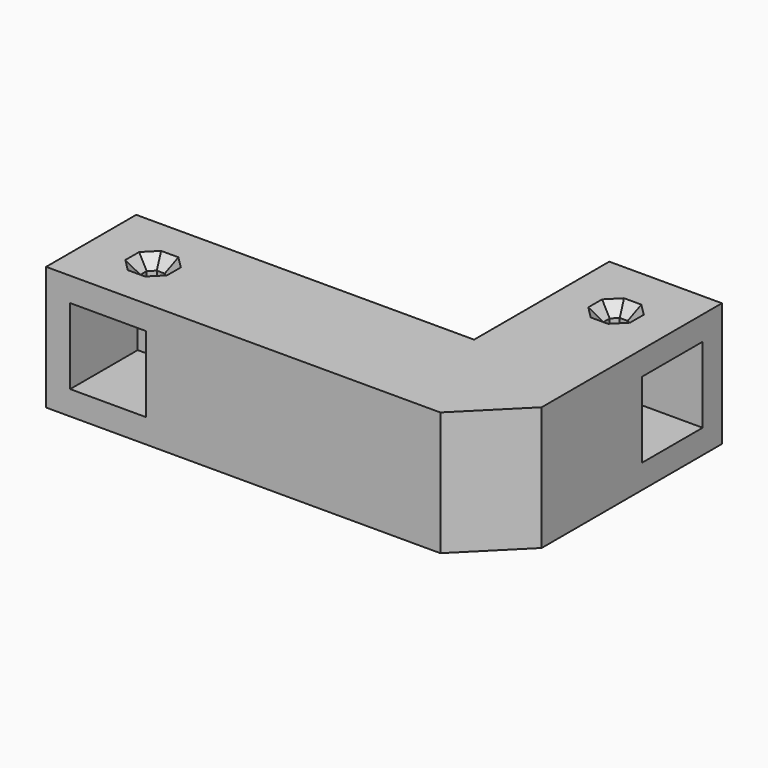
from build123d import *

# Parameters (mm, degrees)
PAD_DEPTH       = 22
SKETCH001_W     = 13.45
SKETCH001_H     = 13.45
POCKET_DEPTH    = 20.001
SKETCH002_W     = 13.45
SKETCH002_H     = 13.45
POCKET001_DEPTH = 15
CHAMFER_SIZE    = 10
POCKET002_DEPTH = 5
CHAMFER001_SIZE = 2


with BuildPart() as part:
    # Sketch → Pad (new body)
    with BuildSketch(Plane.XY):
        Polygon((0, 30), (0, 0), (-60, 0), (-60, -20), (20, -20), (20, 30), align=None)
    extrude(amount=PAD_DEPTH)

    # Sketch001 (on Face1 of Pad) → Pocket (cut, through all)
    with BuildSketch(Plane(origin=(0, 0, 0), x_dir=(0, -1, 0), z_dir=(-1, 0, 0))):
        with Locations((-19, 11)):
            Rectangle(SKETCH001_W, SKETCH001_H)
    extrude(amount=-POCKET_DEPTH, mode=Mode.SUBTRACT)

    # Sketch002 (on Face12 of Pocket) → Pocket001 (cut)
    with BuildSketch(Plane.XZ.offset(20)):
        with Locations((-49, 11)):
            Rectangle(SKETCH002_W, SKETCH002_H)
    extrude(amount=-POCKET001_DEPTH, mode=Mode.SUBTRACT)

    # Chamfer
    chamfer_edges = [part.edges().sort_by_distance(p)[0] for p in [
        (20, -20, 11),
    ]]
    chamfer(chamfer_edges, length=CHAMFER_SIZE)

    # Sketch003 (on Face9 of Chamfer) → Pocket002 (cut)
    with BuildSketch(Plane.XY.offset(22)):
        Polygon((9.295837, 17.3), (10.704163, 17.3), (11.7, 18.295837), (11.7, 19.704163), (10.704163, 20.7), (9.295837, 20.7), (8.3, 19.704163), (8.3, 18.295837), align=None)
        Polygon((-47.3, -10.704163), (-47.3, -9.295837), (-48.295837, -8.3), (-49.704163, -8.3), (-50.7, -9.295837), (-50.7, -10.704163), (-49.704163, -11.7), (-48.295837, -11.7), align=None)
    extrude(amount=-POCKET002_DEPTH, mode=Mode.SUBTRACT)

    # Chamfer001
    chamfer001_edges = [part.edges().sort_by_distance(p)[0] for p in [
        (-50.7, -10, 22),
        (-50.202082, -8.797918, 22),
        (-49, -8.3, 22),
        (-47.797918, -8.797918, 22),
        (-47.3, -10, 22),
        (-47.797918, -11.202082, 22),
        (-49, -11.7, 22),
        (-50.202082, -11.202082, 22),
        (8.3, 19, 22),
        (8.797918, 20.202082, 22),
        (10, 20.7, 22),
        (11.202082, 20.202082, 22),
        (11.7, 19, 22),
        (11.202082, 17.797918, 22),
        (10, 17.3, 22),
        (8.797918, 17.797918, 22),
    ]]
    chamfer(chamfer001_edges, length=CHAMFER001_SIZE)


solid = part.part
